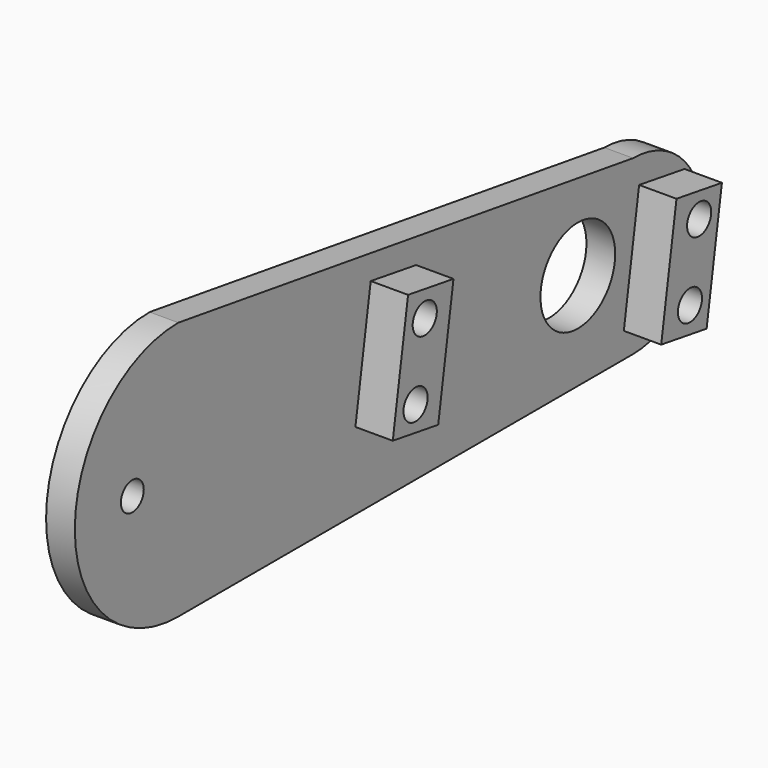
from build123d import *

# Parameters (mm, degrees)
CYLINDER007_R          = 3
CYLINDER007_DEPTH      = 10
CYLINDER004_R          = 2.1
CYLINDER004_DEPTH      = 10
CYLINDER003_R          = 2.1
CYLINDER003_DEPTH      = 10
BOX001_W               = 7
BOX001_H               = 8
BOX001_DEPTH           = 17
BOX001_PLACEMENT_ANGLE = 9
SKETCH002_R            = 6.5
SKETCH002_R_2          = 1.98925
PAD002_DEPTH           = 4
CYLINDER006_R          = 2.1
CYLINDER006_DEPTH      = 10
CYLINDER005_R          = 2.1
CYLINDER005_DEPTH      = 10
BOX002_W               = 7
BOX002_H               = 8
BOX002_DEPTH           = 17
BOX002_PLACEMENT_ANGLE = 9
CUT003_PLACEMENT_ANGLE = 180


with BuildPart() as cylinder007:
    # Cylinder007 → Cylinder007 (new body)
    with BuildSketch(Plane(origin=(9, -52.5, 44), x_dir=(0, 0, -1), z_dir=(1, 0, 0))):
        Circle(CYLINDER007_R)
    extrude(amount=CYLINDER007_DEPTH)


with BuildPart() as cylinder004:
    # Cylinder004 → Cylinder004 (new body)
    with BuildSketch(Plane(origin=(23, 39.6, 42.2), x_dir=(0, 0, -1), z_dir=(1, 0, 0))):
        Circle(CYLINDER004_R)
    extrude(amount=CYLINDER004_DEPTH)


with BuildPart() as fusion001:
    # Cylinder003 → Cylinder003 (new body)
    with BuildSketch(Plane(origin=(23, 38, 32.3), x_dir=(0, 0, -1), z_dir=(1, 0, 0))):
        Circle(CYLINDER003_R)
    extrude(amount=CYLINDER003_DEPTH)

    # Fusion001: union Cylinder004
    add(cylinder004.part)


with BuildPart() as fusion001_1:
    # Fusion001 placement: moved
    add(fusion001.part.moved(Location((-1, 0, 0))))


with BuildPart() as cut002:
    # Box001 → Box001 (new body)
    with BuildSketch(Plane.XY):
        with Locations((3.5, 4)):
            Rectangle(BOX001_W, BOX001_H)
    extrude(amount=BOX001_DEPTH)


with BuildPart() as cut002_1:
    # Box001 placement: moved
    add(cut002.part.moved(Location((20.2, 33, 29.5))).rotate(Axis((20.2, 33, 29.5), (-1, 0, 0)), BOX001_PLACEMENT_ANGLE))

    # Cut002: cut Fusion001
    add(fusion001_1.part, mode=Mode.SUBTRACT)


with BuildPart() as obj1:
    # Sketch002 → Pad002 (new body)
    with BuildSketch(Plane.YZ):
        with BuildLine():
            Line((-19.485119, 0), (59.609761, 0))
            ThreePointArc((59.609761, 0), (71.609761, 12), (59.609761, 24))
            Line((-19.485119, 36), (59.609761, 24))
            ThreePointArc((-19.485119, 36), (-37.485119, 18), (-19.485119, 0))
        make_face()
        with Locations((50, 13.528694)):
            Circle(SKETCH002_R, mode=Mode.SUBTRACT)
        with Locations((-27.485119, 18)):
            Circle(SKETCH002_R_2, mode=Mode.SUBTRACT)
    extrude(amount=PAD002_DEPTH)


with BuildPart() as obj1_1:
    # Body002 placement: moved
    add(obj1.part.moved(Location((18, -25, 26))))


with BuildPart() as cylinder006:
    # Cylinder006 → Cylinder006 (new body)
    with BuildSketch(Plane(origin=(23, 39.6, 42.2), x_dir=(0, 0, -1), z_dir=(1, 0, 0))):
        Circle(CYLINDER006_R)
    extrude(amount=CYLINDER006_DEPTH)


with BuildPart() as fusion002:
    # Cylinder005 → Cylinder005 (new body)
    with BuildSketch(Plane(origin=(23, 38, 32.3), x_dir=(0, 0, -1), z_dir=(1, 0, 0))):
        Circle(CYLINDER005_R)
    extrude(amount=CYLINDER005_DEPTH)

    # Fusion002: union Cylinder006
    add(cylinder006.part)


with BuildPart() as fusion002_1:
    # Fusion002 placement: moved
    add(fusion002.part.moved(Location((-1, 0, 0))))


with BuildPart() as cut004:
    # Box002 → Box002 (new body)
    with BuildSketch(Plane.XY):
        with Locations((3.5, 4)):
            Rectangle(BOX002_W, BOX002_H)
    extrude(amount=BOX002_DEPTH)


with BuildPart() as cut004_1:
    # Box002 placement: moved
    add(cut004.part.moved(Location((20.2, 33, 29.5))).rotate(Axis((20.2, 33, 29.5), (-1, 0, 0)), BOX002_PLACEMENT_ANGLE))

    # Cut003: cut Fusion002
    add(fusion002_1.part, mode=Mode.SUBTRACT)


with BuildPart() as cut004_2:
    # Cut003 placement: moved
    add(cut004_1.part.moved(Location((0, 29.8756, 81.7462))).rotate(Axis((0, 29.8756, 81.7462), (1, 0, 0)), CUT003_PLACEMENT_ANGLE))

    # Fusion003: union Cut002, obj1
    add(cut002_1.part)
    add(obj1_1.part)

    # Cut004: cut Cylinder007
    add(cylinder007.part, mode=Mode.SUBTRACT)


solid = cut004_2.part
